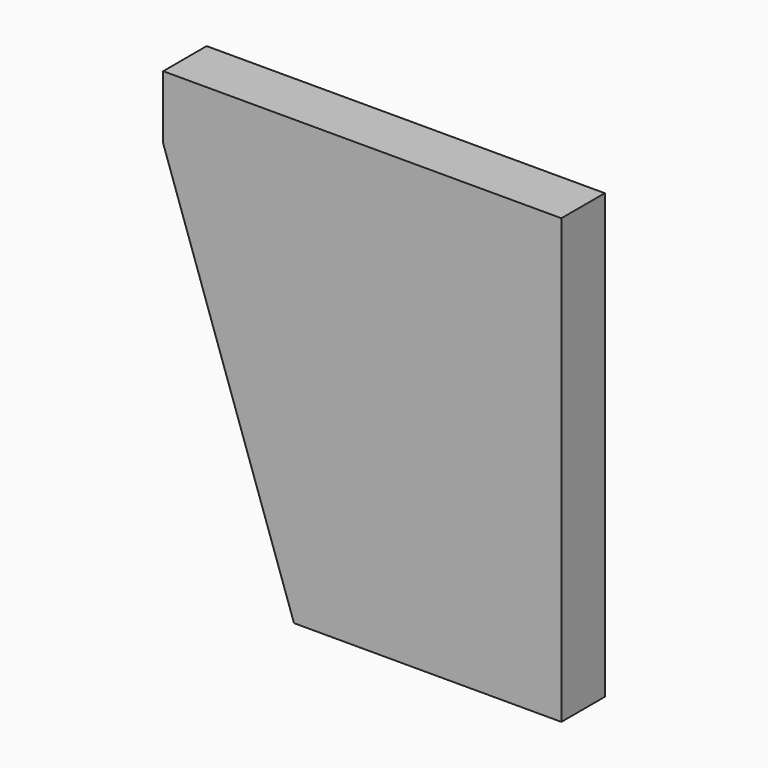
from build123d import *

# Parameters (mm, degrees)
BOX720_W               = 80
BOX720_H               = 6
BOX720_DEPTH           = 20
BOX720_PLACEMENT_ANGLE = 71
BOX727_W               = 44
BOX727_H               = 6
BOX727_DEPTH           = 49


with BuildPart() as krychle720:
    # Box720 → Box720 (new body)
    with BuildSketch(Plane.XY):
        with Locations((40, 3)):
            Rectangle(BOX720_W, BOX720_H)
    extrude(amount=BOX720_DEPTH)


with BuildPart() as krychle720_1:
    # Box720 placement: moved
    add(krychle720.part.moved(Location((-118.17, -24, 82.63))).rotate(Axis((-118.17, -24, 82.63), (0, 1, 0)), BOX720_PLACEMENT_ANGLE))


with BuildPart() as cut532:
    # Box727 → Box727 (new body)
    with BuildSketch(Plane(origin=(-93, -24, 29), x_dir=(1, 0, 0), z_dir=(0, 0, 1))):
        with Locations((22, 3)):
            Rectangle(BOX727_W, BOX727_H)
    extrude(amount=BOX727_DEPTH)

    # Cut532: cut Krychle720
    add(krychle720_1.part, mode=Mode.SUBTRACT)


solid = cut532.part
